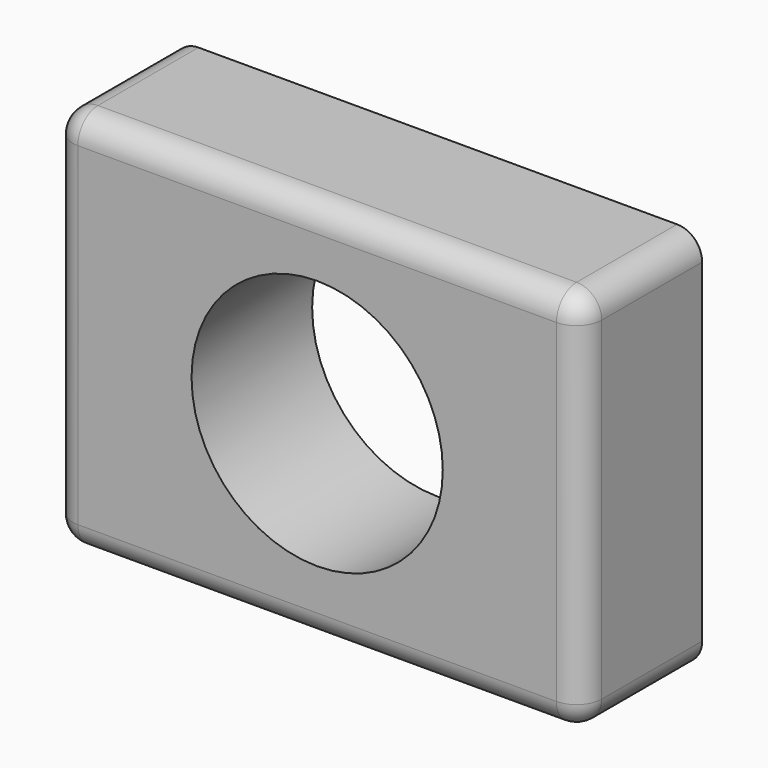
from build123d import *

# Parameters (mm, degrees)
F0_W     = 105.252586
F0_H     = 76.403916
F1_DEPTH = 30
F2_R     = 5
F4_D     = 50


with BuildPart() as f1:
    # F0 (on Front) → F1 (new body)
    with BuildSketch(Plane.XZ):
        Rectangle(F0_W, F0_H)
    extrude(amount=F1_DEPTH)

    # F2
    f2_edges = [f1.edges().sort_by_distance(p)[0] for p in [
        (0, -30, 38.201958),
        (-52.626293, -30, 0),
        (0, -30, -38.201958),
        (52.626293, -30, 0),
        (-52.626293, -15, 38.201958),
        (-52.626293, -15, -38.201958),
        (52.626293, -15, 38.201958),
        (52.626293, -15, -38.201958),
    ]]
    fillet(f2_edges, radius=F2_R)

    # F4 (through all)
    with Locations(Plane.XZ.offset(30)):
        with Locations((0, 0)):
            Hole(F4_D / 2)


solid = f1.part
